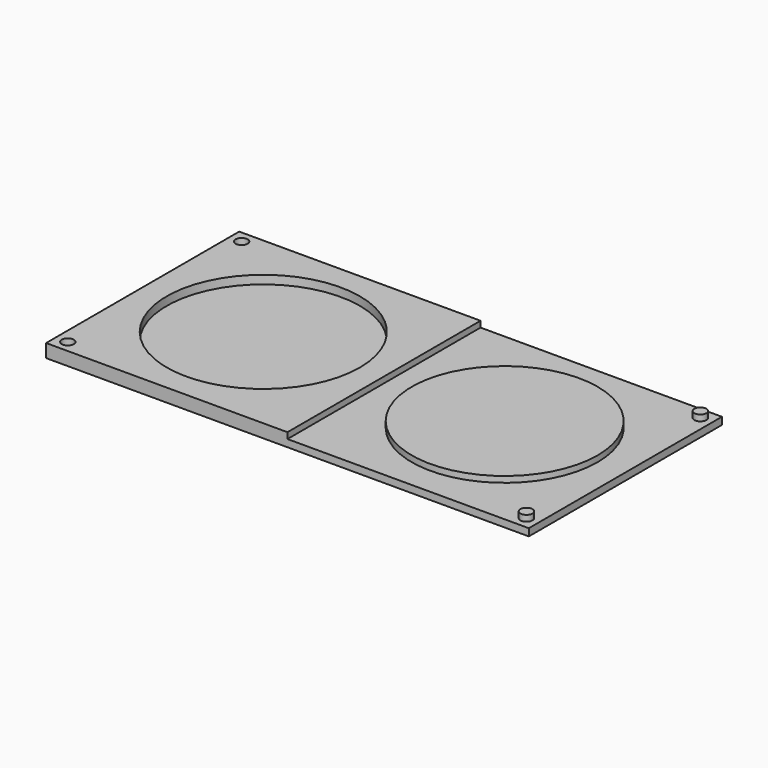
from build123d import *

# Parameters (mm, degrees)
F0_W     = 400
F0_H     = 200
F1_DEPTH = 11
F2_R     = 5
F2_R_2   = 80
F3_DEPTH = 7
F2_W     = 200
F2_H     = 200
F2_R_3   = 77
F4_DEPTH = 5


with BuildPart() as f1:
    # F0 (on Top) → F1 (new body)
    with BuildSketch(Plane.XY):
        with Locations((164.849856, 81.428634)):
            Rectangle(F0_W, F0_H)
    extrude(amount=F1_DEPTH)

    # F2 (on face) → F3 (cut)
    with BuildSketch(Plane.XY.offset(11)):
        with Locations((-25.150144, -8.558058)):
            Circle(F2_R)
        with Locations((64.849856, 81.428634)):
            Circle(F2_R_2)
        with Locations((-25.209671, 171.52901)):
            Circle(F2_R)
    extrude(amount=-F3_DEPTH, mode=Mode.SUBTRACT)

    # F2 (on face) → F4 (cut)
    with BuildSketch(Plane.XY.offset(11)):
        with Locations((264.849856, 81.428634)):
            Rectangle(F2_W, F2_H)
        with Locations((354.849856, -8.558058)):
            Circle(F2_R, mode=Mode.SUBTRACT)
        with Locations((264.849856, 81.428634)):
            Circle(F2_R_3, mode=Mode.SUBTRACT)
        with Locations((354.909382, 171.52901)):
            Circle(F2_R, mode=Mode.SUBTRACT)
    extrude(amount=-F4_DEPTH, mode=Mode.SUBTRACT)


solid = f1.part
